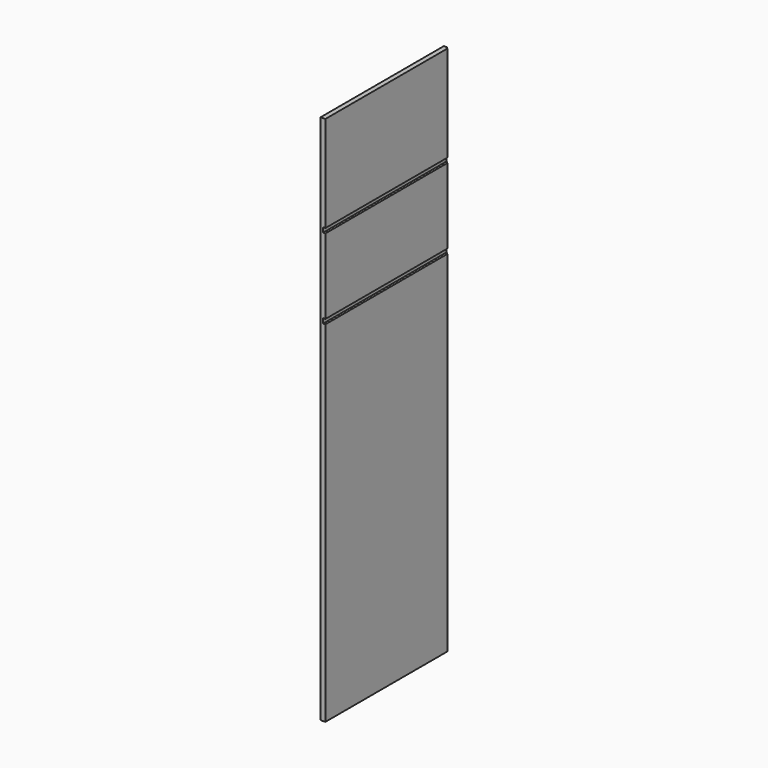
from build123d import *

# Parameters (mm, degrees)
F0_W     = 616
F0_H     = 2122
F1_DEPTH = 19
F2_W     = 6
F2_H     = 6
F3_DEPTH = 2122.001
F4_W     = 9
F4_H     = 19
F5_DEPTH = 616.001
F6_W     = 9
F6_H     = 19
F7_DEPTH = 616.001


with BuildPart() as f1:
    # F0 (on Right) → F1 (new body)
    with BuildSketch(Plane.YZ):
        with Locations((308, 1061)):
            Rectangle(F0_W, F0_H)
    extrude(amount=F1_DEPTH)

    # F2 (on Top) → F3 (cut, through all)
    with BuildSketch(Plane.XY):
        with Locations((16, 613)):
            Rectangle(F2_W, F2_H)
    extrude(amount=F3_DEPTH, mode=Mode.SUBTRACT)

    # F4 (on Front) → F5 (cut, through all)
    with BuildSketch(Plane.XZ):
        with Locations((14.5, 1408.5)):
            Rectangle(F4_W, F4_H)
    extrude(amount=-F5_DEPTH, mode=Mode.SUBTRACT)

    # F6 (on Front) → F7 (cut, through all)
    with BuildSketch(Plane.XZ):
        with Locations((14.5, 1728.5)):
            Rectangle(F6_W, F6_H)
    extrude(amount=-F7_DEPTH, mode=Mode.SUBTRACT)


solid = f1.part
